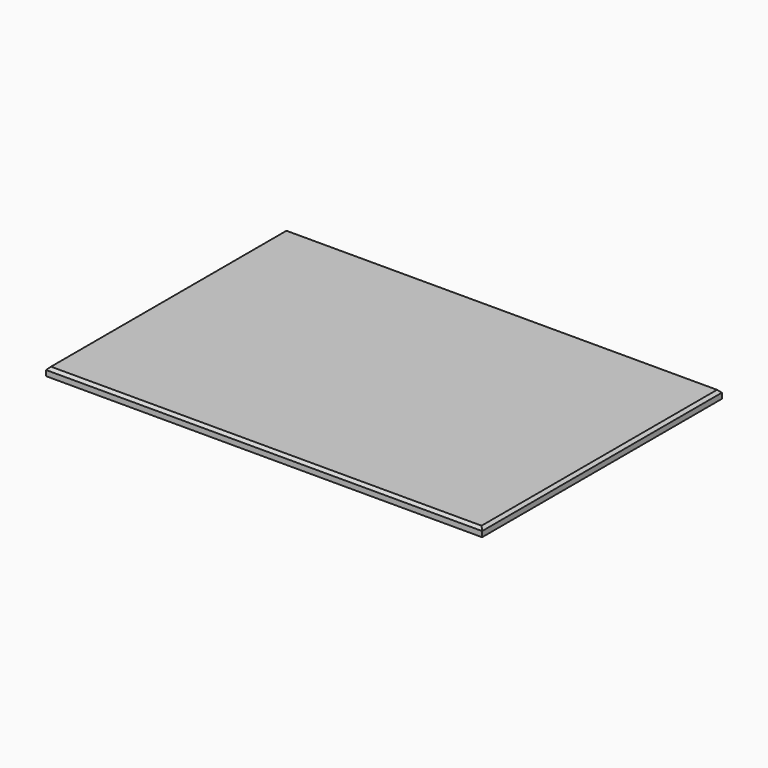
from build123d import *

# Parameters (mm, degrees)
F0_W     = 160
F0_H     = 110
F1_DEPTH = 3
F2_SIZE  = 1


with BuildPart() as f1:
    # F0 (on Top) → F1 (new body)
    with BuildSketch(Plane.XY):
        Rectangle(F0_W, F0_H)
    extrude(amount=F1_DEPTH)

    # F2
    f2_edges = [f1.edges().sort_by_distance(p)[0] for p in [
        (-80, 0, 3),
        (0, -55, 3),
        (80, 0, 3),
        (0, 55, 3),
    ]]
    chamfer(f2_edges, length=F2_SIZE)


solid = f1.part
